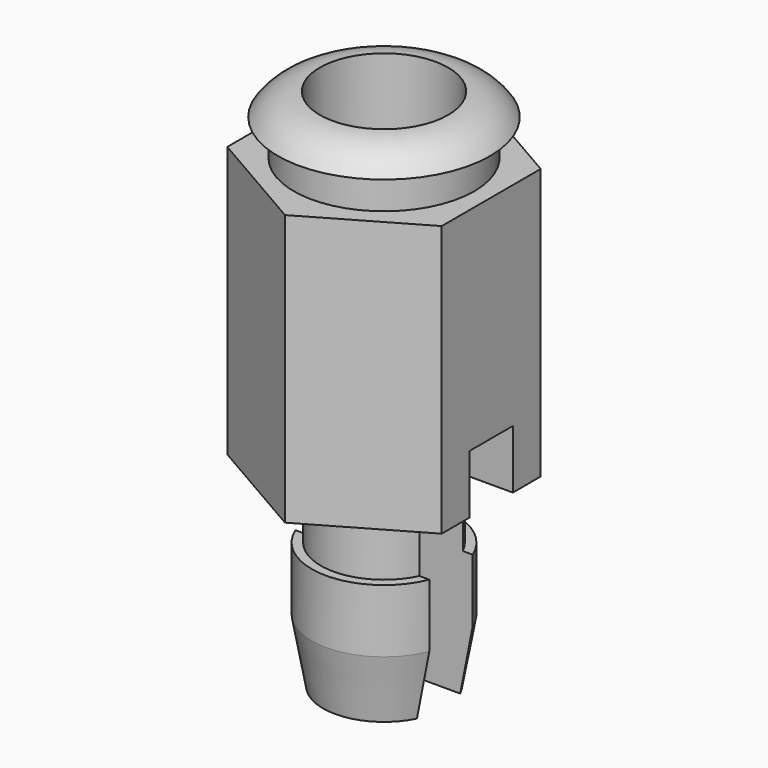
from build123d import *

# Parameters (mm, degrees)
SKETCH010_R          = 4.679612
POCKET005_DEPTH      = 10.301
SKETCH011_W          = 1.2
SKETCH011_H          = 6
POCKET006_DEPTH      = 2.376
POCKET006_DEPTH_BACK = 2.376


with BuildPart() as part:
    # Sketch009 → Revolution (revolve)
    with BuildSketch(Plane.XZ):
        with BuildLine():
            Line((1.4224, 0.5), (1.4224, -4.178777))
            Line((1.4224, -4.178777), (0, -5))
            Line((0, -5), (0, -11.1))
            Line((0, -11.1), (1.35, -11.1))
            Line((1.35, -11.1), (1.6, -9.7))
            Line((1.6, -9.7), (1.6, -8.3))
            Line((1.6, -8.3), (1.4, -8.3))
            Line((1.4, -8.3), (1.4, -6.8))
            Line((1.4, -6.8), (4, -6.8))
            Line((4, -6.8), (4, -0.8))
            Line((4, -0.8), (2, -0.8))
            Line((2, -0.8), (2, 0))
            Line((2, 0), (2.35, 0))
            ThreePointArc((2.35, 0), (1.949288, 0.36704), (1.4224, 0.5))
        make_face()
    revolve(axis=Axis((0, 0, 0), (0, 0, 1)))

    # Sketch010 (on Face10 of Revolution) → Pocket005 (cut, through all)
    with BuildSketch(Plane(origin=(0, 0, -0.8), x_dir=(-1, 0, 0), z_dir=(0, 0, 1))):
        Circle(SKETCH010_R)
        Polygon((0, 2.742414), (-2.375, 1.371207), (-2.375, -1.371207), (0, -2.742414), (2.375, -1.371207), (2.375, 1.371207), align=None, mode=Mode.SUBTRACT)
    extrude(amount=-POCKET005_DEPTH, mode=Mode.SUBTRACT)

    # Sketch011 → Pocket006 (cut, two sides)
    with BuildSketch(Plane.YZ) as pocket006_sk:
        with Locations((0, -8.5)):
            Rectangle(SKETCH011_W, SKETCH011_H)
    extrude(amount=-POCKET006_DEPTH, mode=Mode.SUBTRACT)
    extrude(pocket006_sk.sketch, amount=POCKET006_DEPTH_BACK, mode=Mode.SUBTRACT)


with BuildPart() as part_1:
    # Body002 placement: moved
    add(part.part.moved(Location((-31.755, 0, 0.4))))


with BuildPart() as part_2:
    # Clone placement: moved
    add(part_1.part.moved(Location((31.755, 0, -0.4))))


with BuildPart() as part_3:
    # Body003 placement: moved
    add(part_2.part.moved(Location((31.755, 0, 0.4))))


solid = part_3.part
